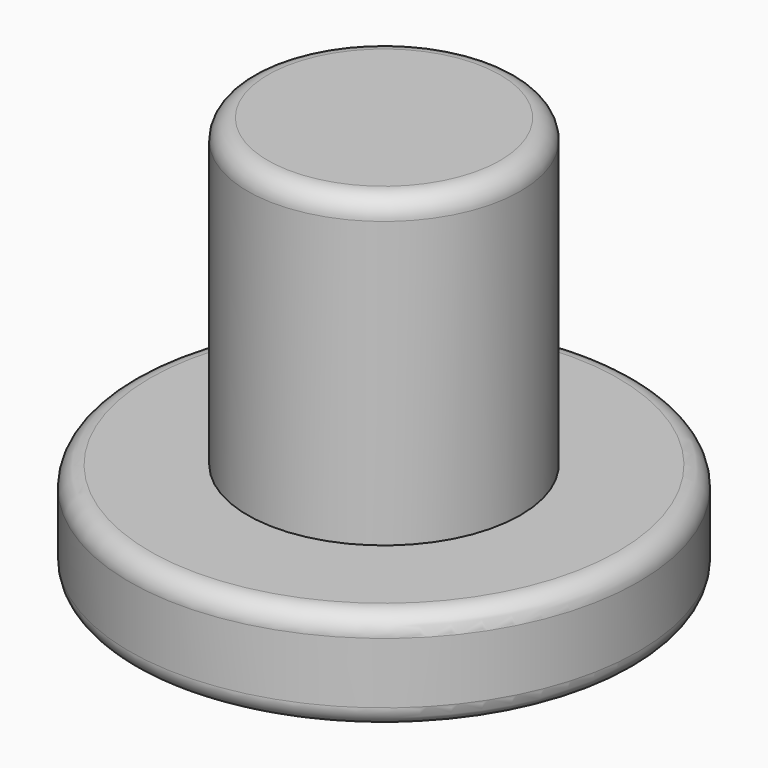
from build123d import *

# Parameters (mm, degrees)
F0_R     = 12.5
F1_DEPTH = 5
F2_R     = 6.7
F3_DEPTH = 20
F4_R     = 1


with BuildPart() as f1:
    # F0 (on Top) → F1 (new body)
    with BuildSketch(Plane.XY):
        Circle(F0_R)
    extrude(amount=F1_DEPTH)

    # F2 (on face) → F3 (join)
    with BuildSketch(Plane(origin=(0, 0, 0), x_dir=(1, 0, 0), z_dir=(0, 0, -1))):
        Circle(F2_R)
    extrude(amount=-F3_DEPTH)

    # F4
    f4_edges = [f1.edges().sort_by_distance(p)[0] for p in [
        (-12.5, 0, 0),
        (-12.5, 0, 5),
        (-6.7, 0, 20),
    ]]
    fillet(f4_edges, radius=F4_R)


solid = f1.part
